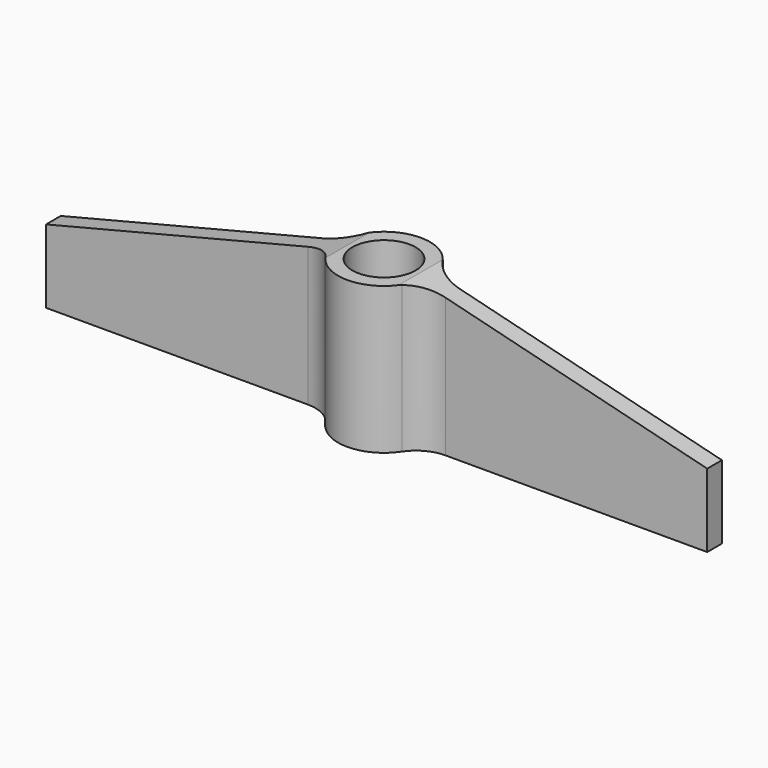
from build123d import *

# Parameters (mm, degrees)
F0_R     = 4.3
F1_DEPTH = 20
F2_R     = 5
F3_SIZE2 = 10
F3_SIZE  = 40


with BuildPart() as f1:
    # F0 (on Top) → F1 (new body)
    with BuildSketch(Plane.XY):
        with BuildLine():
            Line((-45, -1.25), (-6.123724357, -1.25))
            ThreePointArc((-6.123724357, -1.25), (0, -6.25), (6.123724357, -1.25))
            Line((6.123724357, -1.25), (45, -1.25))
            Line((45, -1.25), (45, 1.25))
            Line((45, 1.25), (6.123724357, 1.25))
            ThreePointArc((6.123724357, 1.25), (0, 6.25), (-6.123724357, 1.25))
            Line((-6.123724357, 1.25), (-45, 1.25))
            Line((-45, 1.25), (-45, -1.25))
        make_face()
        Circle(F0_R, mode=Mode.SUBTRACT)
    extrude(amount=F1_DEPTH)

    # F2
    f2_edges = [f1.edges().sort_by_distance(p)[0] for p in [
        (-6.123724, -1.25, 10),
        (6.123724, -1.25, 10),
        (-6.123724, 1.25, 10),
        (6.123724, 1.25, 10),
    ]]
    fillet(f2_edges, radius=F2_R)

    # F3
    f3_edges = [f1.edges().sort_by_distance(p)[0] for p in [
        (-45, 0, 20),
        (45, 0, 20),
    ]]
    f3_side = f1.faces().sort_by_distance((-27.177072, 0.341361, 20))[0]
    chamfer(f3_edges, length=F3_SIZE, length2=F3_SIZE2, reference=f3_side)


solid = f1.part
